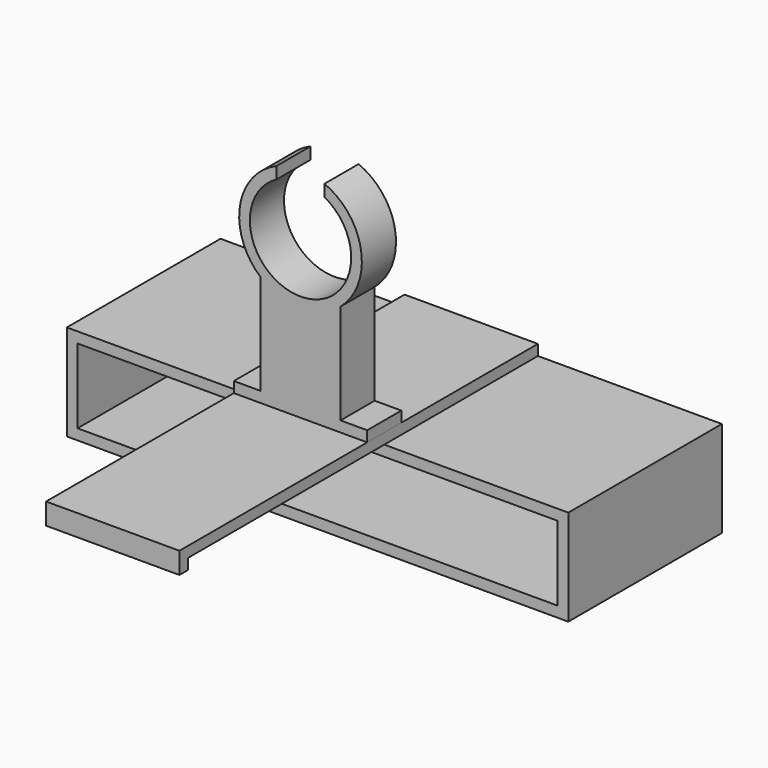
from build123d import *

# Parameters (mm, degrees)
F0_W      = 94
F0_H      = 18
F1_DEPTH  = 36
F2_T      = -2
F4_DEPTH  = 12.5
F5_W      = 25
F5_H      = 2
F6_DEPTH  = 4
F7_W      = 15
F7_H      = 25
F8_DEPTH  = 4
F9_R      = 11.5
F10_DEPTH = 4
F11_R     = 9.5
F12_DEPTH = 17.7
F13_W     = 9
F13_H     = 25
F14_DEPTH = 12.5


with BuildPart() as f1:
    # F0 (on Front) → F1 (new body)
    with BuildSketch(Plane.XZ):
        with Locations((0, 9)):
            Rectangle(F0_W, F0_H)
    extrude(amount=-F1_DEPTH)

    # F2
    f2_openings = [f1.faces().sort_by_distance(p)[0] for p in [
        (0, 0, 9),
    ]]
    offset(amount=F2_T, openings=f2_openings)


with BuildPart() as f4:
    # F3 (on Right) → F4 (new body, symmetric)
    with BuildSketch(Plane.YZ):
        Polygon((0, 18), (36, 18), (36, 20), (-48, 20), (-48, 18), (-48, 16), (-46, 16), (-46, 17), (-46, 18), (-44.692099, 18), align=None)
    extrude(amount=F4_DEPTH, both=True)


with BuildPart() as f6:
    # F5 (on Front) → F6 (new body, symmetric)
    with BuildSketch(Plane.XZ):
        with Locations((0, 21)):
            Rectangle(F5_W, F5_H)
    extrude(amount=F6_DEPTH, both=True)

    # F7 (on Front) → F8 (join, symmetric)
    with BuildSketch(Plane.XZ):
        with Locations((0, 34.5)):
            Rectangle(F7_W, F7_H)
    extrude(amount=F8_DEPTH, both=True)

    # F9 (on Front) → F10 (join, symmetric)
    with BuildSketch(Plane.XZ):
        with Locations((0, 49.5)):
            Circle(F9_R)
    extrude(amount=F10_DEPTH, both=True)

    # F11 (on Front) → F12 (cut, symmetric)
    with BuildSketch(Plane.XZ):
        with Locations((0, 49.5)):
            Circle(F11_R)
    extrude(amount=F12_DEPTH, both=True, mode=Mode.SUBTRACT)

    # F13 (on Front) → F14 (cut, symmetric)
    with BuildSketch(Plane.XZ):
        with Locations((0, 59.5)):
            Rectangle(F13_W, F13_H)
    extrude(amount=F14_DEPTH, both=True, mode=Mode.SUBTRACT)


solid = Compound([f1.part, f4.part, f6.part])
